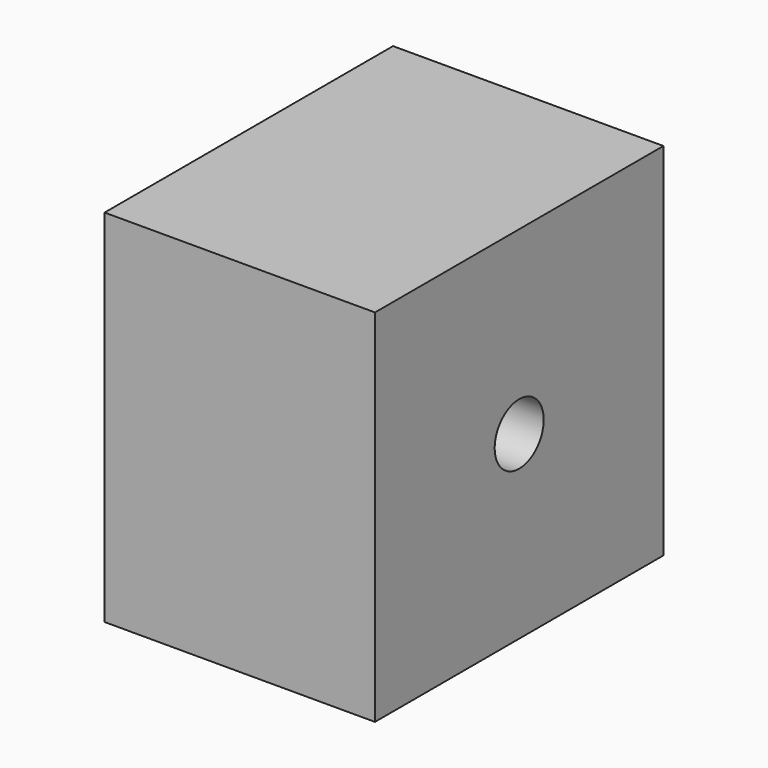
from build123d import *

# Parameters (mm, degrees)
CYLINDER017_R           = 1.7
CYLINDER017_DEPTH       = 80
CYLINDER017_PITCH_ANGLE = 90
BOX_W                   = 15
BOX_H                   = 20
BOX_DEPTH               = 20


with BuildPart() as taladro_tornillo010:
    # Cylinder017 → Cylinder017 (new body)
    with BuildSketch(Plane.XY):
        Circle(CYLINDER017_R)
    extrude(amount=CYLINDER017_DEPTH)


with BuildPart() as taladro_tornillo010_1:
    # Cylinder017 pitch: moved
    add(taladro_tornillo010.part.rotate(Axis((0, 0, 0), (0, 1, 0)), CYLINDER017_PITCH_ANGLE))


with BuildPart() as taladro_tornillo010_2:
    # Cylinder017 placement: moved
    add(taladro_tornillo010_1.part.moved(Location((-20, 10, 10))))


with BuildPart() as cut:
    # Box → Box (new body)
    with BuildSketch(Plane.XY):
        with Locations((7.5, 10)):
            Rectangle(BOX_W, BOX_H)
    extrude(amount=BOX_DEPTH)

    # Cut: cut Taladro tornillo010
    add(taladro_tornillo010_2.part, mode=Mode.SUBTRACT)


solid = cut.part
